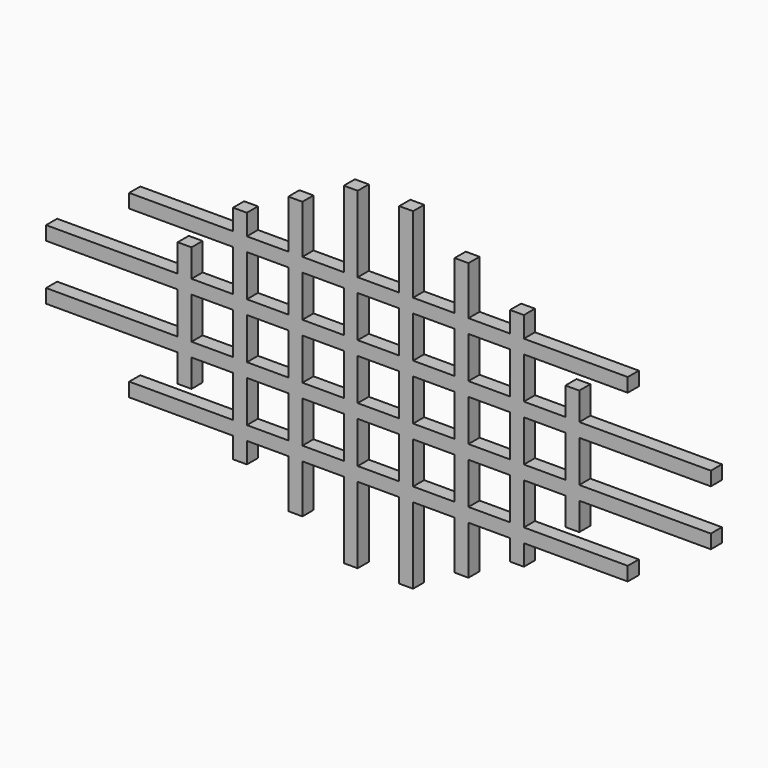
from build123d import *

# Parameters (mm, degrees)
F0_W     = 482.6
F0_H     = 50.8
F0_W_2   = 50.8
F0_W_3   = 152.4
F0_H_2   = 101.6
F0_W_4   = 482.6000000003
F0_H_3   = 152.4
F0_W_5   = 381.0000000003
F0_W_6   = 151.9448201656
F0_H_4   = 76.2
F0_W_7   = 51.7103596687
F0_H_5   = 177.8
F0_H_6   = 279.4
F0_W_8   = 380.9999999997
F1_DEPTH = 50.8


with BuildPart() as f1:
    # F0 (on Front) → F1 (new body)
    with BuildSketch(Plane.XZ):
        with Locations((-977.9, 101.6)):
            Rectangle(F0_W, F0_H)
        with Locations((-711.2, 101.6)):
            Rectangle(F0_W_2, F0_H)
        Polygon((-685.8, 76.2), (-736.6, 76.2), (-736.6, -76.2), (-685.8, -76.2), (-685.8, 0), align=None)
        with Locations((-609.6, 101.6)):
            Rectangle(F0_W_3, F0_H)
        with Locations((-711.2, 177.8)):
            Rectangle(F0_W_2, F0_H_2)
        with Locations((-977.9000000001, -101.6)):
            Rectangle(F0_W_4, F0_H)
        with Locations((-711.2, -101.6)):
            Rectangle(F0_W_2, F0_H)
        with Locations((-508, 101.6)):
            Rectangle(F0_W_2, F0_H)
        with Locations((-609.6, -101.6)):
            Rectangle(F0_W_3, F0_H)
        with Locations((-711.2, -177.8)):
            Rectangle(F0_W_2, F0_H_2)
        with Locations((-508, 203.2)):
            Rectangle(F0_W_2, F0_H_3)
        with Locations((-508, -101.6)):
            Rectangle(F0_W_2, F0_H)
        with Locations((-508, 304.8)):
            Rectangle(F0_W_2, F0_H)
        with Locations((-723.9000000001, 304.8)):
            Rectangle(F0_W_5, F0_H)
        with Locations((-508, -203.2)):
            Rectangle(F0_W_2, F0_H_3)
        with Locations((-406.6275899172, 304.8)):
            Rectangle(F0_W_6, F0_H)
        with Locations((-508, 368.3)):
            Rectangle(F0_W_2, F0_H_4)
        with Locations((-723.9000000001, -304.8)):
            Rectangle(F0_W_5, F0_H)
        with Locations((-508, -304.8)):
            Rectangle(F0_W_2, F0_H)
        with Locations((-304.8, 304.8)):
            Rectangle(F0_W_7, F0_H)
        with Locations((-406.6275899172, -304.8)):
            Rectangle(F0_W_6, F0_H)
        with Locations((-508, -368.3)):
            Rectangle(F0_W_2, F0_H_4)
        with Locations((-202.9724100828, 304.8)):
            Rectangle(F0_W_6, F0_H)
        with Locations((-304.8, 419.1)):
            Rectangle(F0_W_7, F0_H_5)
        with Locations((-304.8, -304.8)):
            Rectangle(F0_W_7, F0_H)
        with Locations((-101.6, 304.8)):
            Rectangle(F0_W_2, F0_H)
        with Locations((-202.9724100828, -304.8)):
            Rectangle(F0_W_6, F0_H)
        with Locations((-304.8, -419.1)):
            Rectangle(F0_W_7, F0_H_5)
        Polygon((-76.2, 330.2), (-76.2, 279.4), (-2e-10, 279.4), (76.2, 279.4), (76.2, 330.2), align=None)
        with Locations((-101.6, 469.9)):
            Rectangle(F0_W_2, F0_H_6)
        with Locations((-101.6, -304.8)):
            Rectangle(F0_W_2, F0_H)
        with Locations((101.6, 304.8)):
            Rectangle(F0_W_2, F0_H)
        Polygon((-3e-10, -279.4), (-76.2, -279.4), (-76.2, -330.2), (76.2, -330.2), (76.2, -279.4), align=None)
        with Locations((-101.6, -469.9)):
            Rectangle(F0_W_2, F0_H_6)
        with Locations((203.2, 304.8)):
            Rectangle(F0_W_3, F0_H)
        with Locations((101.6, 469.9)):
            Rectangle(F0_W_2, F0_H_6)
        with Locations((101.6, -304.8)):
            Rectangle(F0_W_2, F0_H)
        with Locations((508, 101.6)):
            Rectangle(F0_W_2, F0_H)
        with Locations((304.8, 304.8)):
            Rectangle(F0_W_2, F0_H)
        with Locations((203.2, -304.8)):
            Rectangle(F0_W_3, F0_H)
        with Locations((101.6, -469.9)):
            Rectangle(F0_W_2, F0_H_6)
        with Locations((609.6, 101.6)):
            Rectangle(F0_W_3, F0_H)
        with Locations((508, 203.2)):
            Rectangle(F0_W_2, F0_H_3)
        with Locations((406.4, 304.8)):
            Rectangle(F0_W_3, F0_H)
        with Locations((304.8, 419.1)):
            Rectangle(F0_W_2, F0_H_5)
        with Locations((508, -101.6)):
            Rectangle(F0_W_2, F0_H)
        with Locations((304.8, -304.8)):
            Rectangle(F0_W_2, F0_H)
        with Locations((711.2, 101.6)):
            Rectangle(F0_W_2, F0_H)
        Polygon((736.6, 76.2), (685.8, 76.2), (685.8, 0), (685.8, -76.2), (736.6, -76.2), align=None)
        with Locations((508, 304.8)):
            Rectangle(F0_W_2, F0_H)
        with Locations((609.6, -101.6)):
            Rectangle(F0_W_3, F0_H)
        with Locations((508, -203.2)):
            Rectangle(F0_W_2, F0_H_3)
        with Locations((406.4, -304.8)):
            Rectangle(F0_W_3, F0_H)
        with Locations((304.8, -419.1)):
            Rectangle(F0_W_2, F0_H_5)
        with Locations((977.9000000001, 101.6)):
            Rectangle(F0_W_4, F0_H)
        with Locations((711.2, 177.8)):
            Rectangle(F0_W_2, F0_H_2)
        with Locations((723.8999999999, 304.8)):
            Rectangle(F0_W_8, F0_H)
        with Locations((508, 368.3)):
            Rectangle(F0_W_2, F0_H_4)
        with Locations((711.2, -101.6)):
            Rectangle(F0_W_2, F0_H)
        with Locations((508, -304.8)):
            Rectangle(F0_W_2, F0_H)
        with Locations((977.9, -101.6)):
            Rectangle(F0_W, F0_H)
        with Locations((711.2, -177.8)):
            Rectangle(F0_W_2, F0_H_2)
        with Locations((723.8999999999, -304.8)):
            Rectangle(F0_W_8, F0_H)
        with Locations((508, -368.3)):
            Rectangle(F0_W_2, F0_H_4)
        with Locations((-304.8, 203.2)):
            Rectangle(F0_W_7, F0_H_3)
        with Locations((-101.6, 203.2)):
            Rectangle(F0_W_2, F0_H_3)
        with Locations((101.6, 203.2)):
            Rectangle(F0_W_2, F0_H_3)
        with Locations((304.8, 203.2)):
            Rectangle(F0_W_2, F0_H_3)
        Polygon((330.2, 76.2), (279.4, 76.2), (279.4, 0), (304.8, 0), (330.2, 0), align=None)
        Polygon((304.8, 0), (279.4, 0), (279.4, -76.2), (330.2, -76.2), (330.2, 0), align=None)
        with Locations((304.8, -101.6)):
            Rectangle(F0_W_2, F0_H)
        with Locations((304.8, -203.2)):
            Rectangle(F0_W_2, F0_H_3)
        with Locations((304.8, 101.6)):
            Rectangle(F0_W_2, F0_H)
        Polygon((533.4, 76.2), (482.6, 76.2), (482.6, 0), (508, 0), (533.4, 0), align=None)
        Polygon((508, 0), (482.6, 0), (482.6, -76.2), (533.4, -76.2), (533.4, 0), align=None)
        with Locations((101.6, -203.2)):
            Rectangle(F0_W_2, F0_H_3)
        with Locations((101.6, -101.6)):
            Rectangle(F0_W_2, F0_H)
        Polygon((101.6, 0), (76.2, 0), (76.2, -76.2), (127, -76.2), (127, 0), align=None)
        Polygon((127, 76.2), (76.2, 76.2), (76.2, 0), (101.6, 0), (127, 0), align=None)
        with Locations((101.6, 101.6)):
            Rectangle(F0_W_2, F0_H)
        with Locations((-101.6, 101.6)):
            Rectangle(F0_W_2, F0_H)
        Polygon((-76.2, 76.2), (-127, 76.2), (-127, 0), (-101.6, 0), (-76.2, 0), align=None)
        Polygon((-101.6, 0), (-127, 0), (-127, -76.2), (-76.2, -76.2), (-76.2, 0), align=None)
        with Locations((-101.6, -101.6)):
            Rectangle(F0_W_2, F0_H)
        with Locations((-101.6, -203.2)):
            Rectangle(F0_W_2, F0_H_3)
        with Locations((-304.8, -203.2)):
            Rectangle(F0_W_7, F0_H_3)
        with Locations((-304.8, -101.6)):
            Rectangle(F0_W_7, F0_H)
        Polygon((-304.8, 0), (-330.6551798344, 0), (-330.6551798344, -76.2), (-278.9448201656, -76.2), (-278.9448201656, 0), align=None)
        Polygon((-278.9448201656, 76.2), (-330.6551798344, 76.2), (-330.6551798344, 0), (-304.8, 0), (-278.9448201656, 0), align=None)
        with Locations((-304.8, 101.6)):
            Rectangle(F0_W_7, F0_H)
        Polygon((-482.6, 76.2), (-533.4, 76.2), (-533.4, 0), (-508, 0), (-482.6, 0), align=None)
        Polygon((-508, 0), (-533.4, 0), (-533.4, -76.2), (-482.6, -76.2), (-482.6, 0), align=None)
        with Locations((-406.6275899172, 101.6)):
            Rectangle(F0_W_6, F0_H)
        with Locations((-202.9724100828, 101.6)):
            Rectangle(F0_W_6, F0_H)
        Polygon((-76.2, 127), (-76.2, 76.2), (76.2, 76.2), (76.2, 127), (0, 127), align=None)
        with Locations((203.2, 101.6)):
            Rectangle(F0_W_3, F0_H)
        with Locations((406.4, 101.6)):
            Rectangle(F0_W_3, F0_H)
        with Locations((406.4, -101.6)):
            Rectangle(F0_W_3, F0_H)
        with Locations((203.2, -101.6)):
            Rectangle(F0_W_3, F0_H)
        Polygon((76.2, -76.2), (-76.2, -76.2), (-76.2, -127), (-3e-10, -127), (76.2, -127), align=None)
        with Locations((-202.9724100828, -101.6)):
            Rectangle(F0_W_6, F0_H)
        with Locations((-406.6275899172, -101.6)):
            Rectangle(F0_W_6, F0_H)
    extrude(amount=F1_DEPTH)


solid = f1.part
